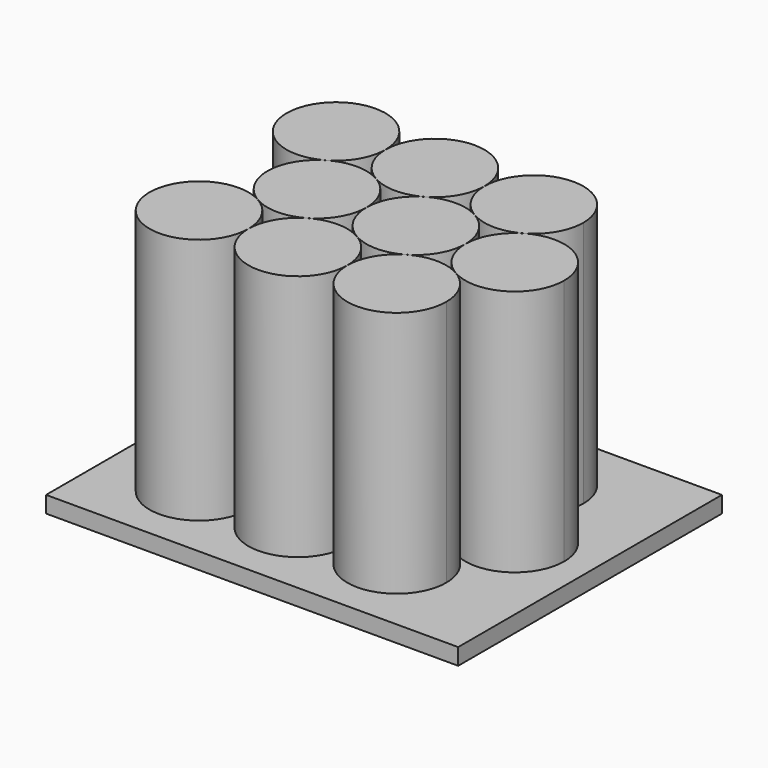
from build123d import *

# Parameters (mm, degrees)
F1_DEPTH = 76.2
F2_W     = 127
F2_H     = 5.08
F3_DEPTH = 50.8


with BuildPart() as f1:
    # F0 (on Top) → F1 (new body)
    with BuildSketch(Plane.XY):
        with BuildLine():
            ThreePointArc((-28.278636, 13.198227), (-22.700409, 18.776454), (-20.658636, 26.396454))
            ThreePointArc((-20.658636, 26.396454), (-49.096863, 34.016454), (-28.278636, 13.198227))
        make_face()
        with BuildLine():
            ThreePointArc((9.821364, 26.396454), (-5.418636, 41.636454), (-20.658636, 26.396454))
            ThreePointArc((-20.658636, 26.396454), (-18.616863, 18.776454), (-13.038636, 13.198227))
            ThreePointArc((-13.038636, 13.198227), (-5.418636, 11.156454), (2.201364, 13.198227))
            ThreePointArc((2.201364, 13.198227), (7.779591, 18.776454), (9.821364, 26.396454))
        make_face()
        with BuildLine():
            ThreePointArc((40.301364, 26.396454), (25.061364, 41.636454), (9.821364, 26.396454))
            ThreePointArc((9.821364, 26.396454), (11.863137, 18.776454), (17.441364, 13.198227))
            ThreePointArc((17.441364, 13.198227), (25.061364, 11.156454), (32.681364, 13.198227))
            ThreePointArc((32.681364, 13.198227), (38.259591, 18.776454), (40.301364, 26.396454))
        make_face()
        with BuildLine():
            ThreePointArc((55.541364, 0), (47.921364, 13.198227), (32.681364, 13.198227))
            ThreePointArc((32.681364, 13.198227), (27.103137, 7.62), (25.061364, 0))
            ThreePointArc((25.061364, 0), (27.103137, -7.62), (32.681364, -13.198227))
            ThreePointArc((32.681364, -13.198227), (47.921364, -13.198227), (55.541364, 0))
        make_face()
        with BuildLine():
            ThreePointArc((17.441364, 13.198227), (9.821364, 15.24), (2.201364, 13.198227))
            ThreePointArc((2.201364, 13.198227), (-3.376863, 7.62), (-5.418636, 0))
            ThreePointArc((-5.418636, 0), (-3.376863, -7.62), (2.201364, -13.198227))
            ThreePointArc((2.201364, -13.198227), (9.821364, -15.24), (17.441364, -13.198227))
            ThreePointArc((17.441364, -13.198227), (23.019591, -7.62), (25.061364, 0))
            ThreePointArc((25.061364, 0), (23.019591, 7.62), (17.441364, 13.198227))
        make_face()
        with BuildLine():
            ThreePointArc((-13.038636, 13.198227), (-20.658636, 15.24), (-28.278636, 13.198227))
            ThreePointArc((-28.278636, 13.198227), (-35.898636, 0), (-28.278636, -13.198227))
            ThreePointArc((-28.278636, -13.198227), (-20.658636, -15.24), (-13.038636, -13.198227))
            ThreePointArc((-13.038636, -13.198227), (-7.460409, -7.62), (-5.418636, 0))
            ThreePointArc((-5.418636, 0), (-7.460409, 7.62), (-13.038636, 13.198227))
        make_face()
        with BuildLine():
            ThreePointArc((-20.658636, -26.396454), (-22.700409, -18.776454), (-28.278636, -13.198227))
            ThreePointArc((-28.278636, -13.198227), (-49.096863, -34.016454), (-20.658636, -26.396454))
        make_face()
        with BuildLine():
            ThreePointArc((2.201364, -13.198227), (-5.418636, -11.156454), (-13.038636, -13.198227))
            ThreePointArc((-13.038636, -13.198227), (-18.616863, -18.776454), (-20.658636, -26.396454))
            ThreePointArc((-20.658636, -26.396454), (-5.418636, -41.636454), (9.821364, -26.396454))
            ThreePointArc((9.821364, -26.396454), (7.779591, -18.776454), (2.201364, -13.198227))
        make_face()
        with BuildLine():
            ThreePointArc((17.441364, -13.198227), (11.863137, -18.776454), (9.821364, -26.396454))
            ThreePointArc((9.821364, -26.396454), (25.061364, -41.636454), (40.301364, -26.396454))
            ThreePointArc((40.301364, -26.396454), (38.259591, -18.776454), (32.681364, -13.198227))
            ThreePointArc((32.681364, -13.198227), (25.061364, -11.156454), (17.441364, -13.198227))
        make_face()
    extrude(amount=F1_DEPTH)


with BuildPart() as f3:
    # F2 (on Front) → F3 (new body, symmetric)
    with BuildSketch(Plane.XZ):
        with Locations((0, -2.54)):
            Rectangle(F2_W, F2_H)
    extrude(amount=F3_DEPTH, both=True)


solid = Compound([f1.part, f3.part])
